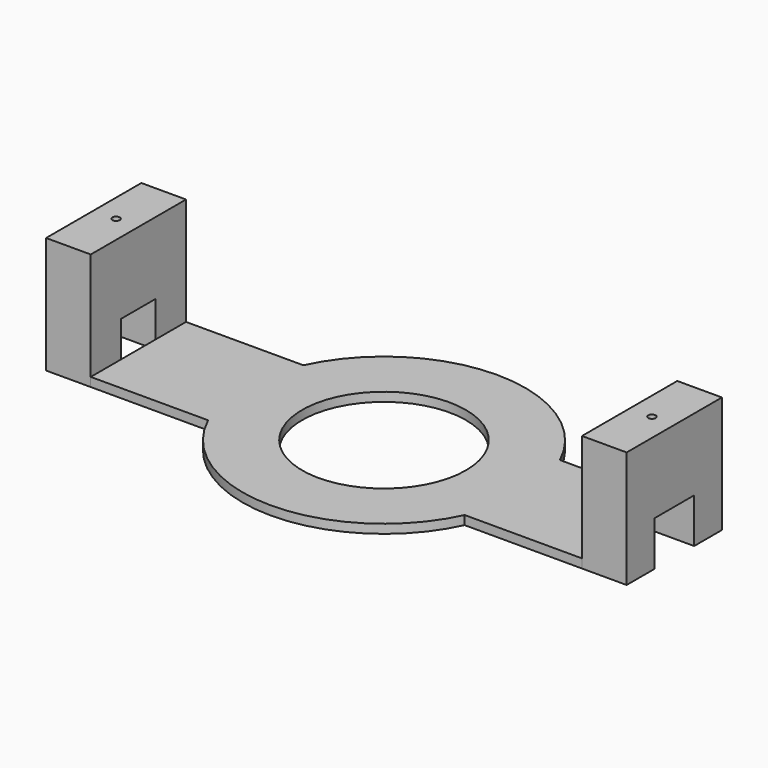
from build123d import *

# Parameters (mm, degrees)
F1_DEPTH  = 39.2
F2_DEPTH  = 3
F3_W      = 15
F3_H      = 7.229873
F4_DEPTH  = 15
F5_W      = 15
F5_H      = 8.342162
F6_DEPTH  = 15
F7_R      = 1.25
F8_DEPTH  = 15
F9_R      = 1.25
F10_DEPTH = 15


with BuildPart() as f1:
    # F0 (on Top) → F1 (new body)
    with BuildSketch(Plane.XY):
        Polygon((-82.5, -20), (-82.5, 0), (-82.5, 20), (-97.5, 20), (-97.5, -20), align=None)
        Polygon((82.5, 20), (82.5, 0), (82.5, -20), (97.5, -20), (97.5, 20), align=None)
    extrude(amount=F1_DEPTH)

    # F3 (on face) → F4 (cut)
    with BuildSketch(Plane(origin=(0, 0, 0), x_dir=(1, 0, 0), z_dir=(0, 0, -1))):
        with Locations((-90, -3.614936)):
            Rectangle(F3_W, F3_H)
        with Locations((-90, 3.614936)):
            Rectangle(F3_W, F3_H)
    extrude(amount=-F4_DEPTH, mode=Mode.SUBTRACT)

    # F5 (on face) → F6 (cut)
    with BuildSketch(Plane(origin=(0, 0, 0), x_dir=(1, 0, 0), z_dir=(0, 0, -1))):
        with Locations((90, 4.171081)):
            Rectangle(F5_W, F5_H)
        with Locations((90, -4.171081)):
            Rectangle(F5_W, F5_H)
    extrude(amount=-F6_DEPTH, mode=Mode.SUBTRACT)

    # F7 (on face) → F8 (cut)
    with BuildSketch(Plane.XY.offset(39.2)):
        with Locations((-90, 0)):
            Circle(F7_R)
    extrude(amount=-F8_DEPTH, mode=Mode.SUBTRACT)

    # F9 (on face) → F10 (cut)
    with BuildSketch(Plane.XY.offset(39.2)):
        with Locations((90, 0)):
            Circle(F9_R)
    extrude(amount=-F10_DEPTH, mode=Mode.SUBTRACT)


with BuildPart() as f2:
    # F0 (on Top) → F2 (new body)
    with BuildSketch(Plane.XY):
        with BuildLine():
            ThreePointArc((43.08422, 20), (46.38292, 10.240839), (47.5, 0))
            Line((47.5, 0), (82.5, 0))
            Line((82.5, 0), (82.5, 20))
            Line((82.5, 20), (43.08422, 20))
        make_face()
        with BuildLine():
            Line((82.5, 0), (47.5, 0))
            ThreePointArc((47.5, 0), (46.38292, -10.240839), (43.08422, -20))
            Line((43.08422, -20), (82.5, -20))
            Line((82.5, -20), (82.5, 0))
        make_face()
        with BuildLine():
            ThreePointArc((-27.5, 0), (0, 27.5), (27.5, 0))
            Line((27.5, 0), (47.5, 0))
            ThreePointArc((47.5, 0), (46.38292, 10.240839), (43.08422, 20))
            ThreePointArc((43.08422, 20), (0, 47.5), (-43.08422, 20))
            ThreePointArc((-43.08422, 20), (-46.38292, 10.240839), (-47.5, 0))
            Line((-47.5, 0), (-27.5, 0))
        make_face()
        with BuildLine():
            Line((47.5, 0), (27.5, 0))
            ThreePointArc((27.5, 0), (0, -27.5), (-27.5, 0))
            Line((-27.5, 0), (-47.5, 0))
            ThreePointArc((-47.5, 0), (-46.38292, -10.240839), (-43.08422, -20))
            ThreePointArc((-43.08422, -20), (0, -47.5), (43.08422, -20))
            ThreePointArc((43.08422, -20), (46.38292, -10.240839), (47.5, 0))
        make_face()
        with BuildLine():
            Line((-82.5, 0), (-47.5, 0))
            ThreePointArc((-47.5, 0), (-46.38292, 10.240839), (-43.08422, 20))
            Line((-43.08422, 20), (-82.5, 20))
            Line((-82.5, 20), (-82.5, 0))
        make_face()
        with BuildLine():
            ThreePointArc((-43.08422, -20), (-46.38292, -10.240839), (-47.5, 0))
            Line((-47.5, 0), (-82.5, 0))
            Line((-82.5, 0), (-82.5, -20))
            Line((-82.5, -20), (-43.08422, -20))
        make_face()
    extrude(amount=F2_DEPTH)


solid = Compound([f1.part, f2.part])
